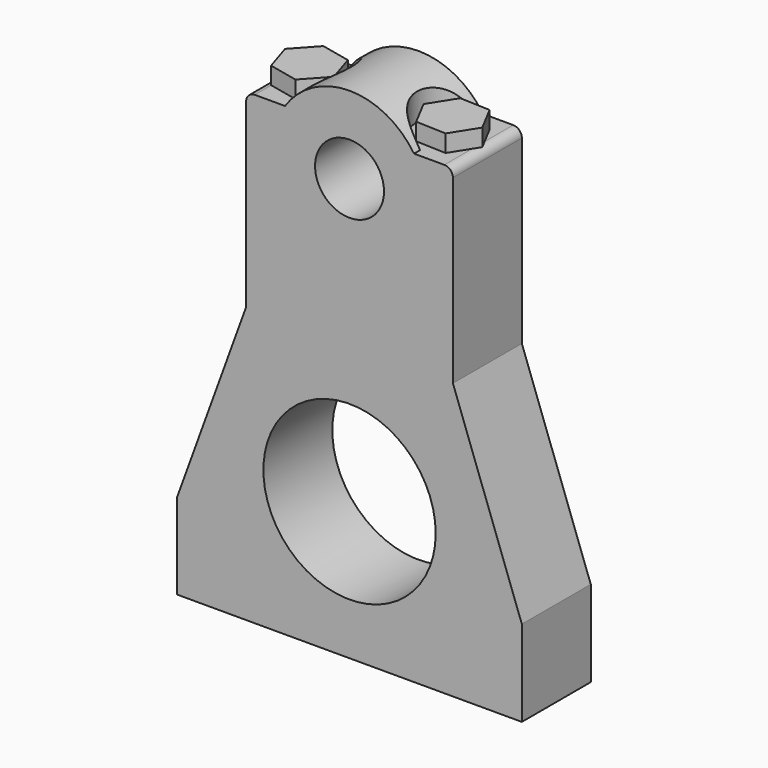
from build123d import *

# Parameters (mm, degrees)
F0_R     = 7.9375
F0_R_2   = 3.175
F1_DEPTH = 3.96875
F2_R     = 0.79375
F4_D     = 3.302
F4_DEPTH = 9.525
F4_TIP   = 0.992020882
F6_R     = 3.302
F7_DEPTH = 25.4
F9_DEPTH = 1.5875


with BuildPart() as f1:
    # F0 (on Front) → F1 (new body, symmetric)
    with BuildSketch(Plane.XZ):
        with BuildLine():
            Line((-15.875, 7.9375), (-15.875, 0))
            Line((-15.875, 0), (15.875, 0))
            Line((15.875, 0), (15.875, 7.9375))
            Line((15.875, 7.9375), (9.525, 25.4))
            Line((9.525, 25.4), (9.525, 42.8625))
            Line((9.525, 42.8625), (5.9398811015, 42.8625))
            ThreePointArc((5.9398811015, 42.8625), (0, 46.0375), (-5.9398811015, 42.8625))
            Line((-5.9398811015, 42.8625), (-9.525, 42.8625))
            Line((-9.525, 42.8625), (-9.525, 25.4))
            Line((-9.525, 25.4), (-15.875, 7.9375))
        make_face()
        with Locations((0, 12.7)):
            Circle(F0_R, mode=Mode.SUBTRACT)
        with Locations((0, 38.89375)):
            Circle(F0_R_2, mode=Mode.SUBTRACT)
    extrude(amount=F1_DEPTH, both=True)

    # F2
    f2_edges = [f1.edges().sort_by_distance(p)[0] for p in [
        (-9.525, 0, 42.8625),
        (9.525, 0, 42.8625),
    ]]
    fillet(f2_edges, radius=F2_R)

    # F4
    with Locations(Plane(origin=(0, 0, 0), x_dir=(1, 0, 0), z_dir=(0, 0, -1))):
        with Locations((-11.1125, 0), (11.1125, 0)):
            Hole(F4_D / 2, depth=F4_DEPTH)
            with Locations((0, 0, -(F4_DEPTH + F4_TIP / 2))):  # 118° drill point
                Cone(0, F4_D / 2, F4_TIP, mode=Mode.SUBTRACT)

    # F6 (on offset) → F7 (cut)
    with BuildSketch(Plane.XY.offset(42.8625)):
        with Locations((-6.35, 0)):
            Circle(F6_R)
        with Locations((6.35, 0)):
            Circle(F6_R)
    extrude(amount=F7_DEPTH, mode=Mode.SUBTRACT)

    # F8 (on offset) → F9 (join)
    with BuildSketch(Plane.XY.offset(42.8625)):
        Polygon((-4.9855054388, 2.0637681785), (-7.7144945612, 2.6629796349), (-9.5979214659, 0.5992114563), (-8.7523592481, -2.0637681785), (-6.0233701256, -2.6629796349), (-4.139943221, -0.5992114563), align=None)
        Polygon((9.1418760206, -0.1089233026), (7.8402683574, 2.3633739067), (5.0483923368, 2.4722972093), (3.5581239794, 0.1089233026), (4.8597316426, -2.3633739067), (7.6516076632, -2.4722972093), align=None)
    extrude(amount=F9_DEPTH)


solid = f1.part
